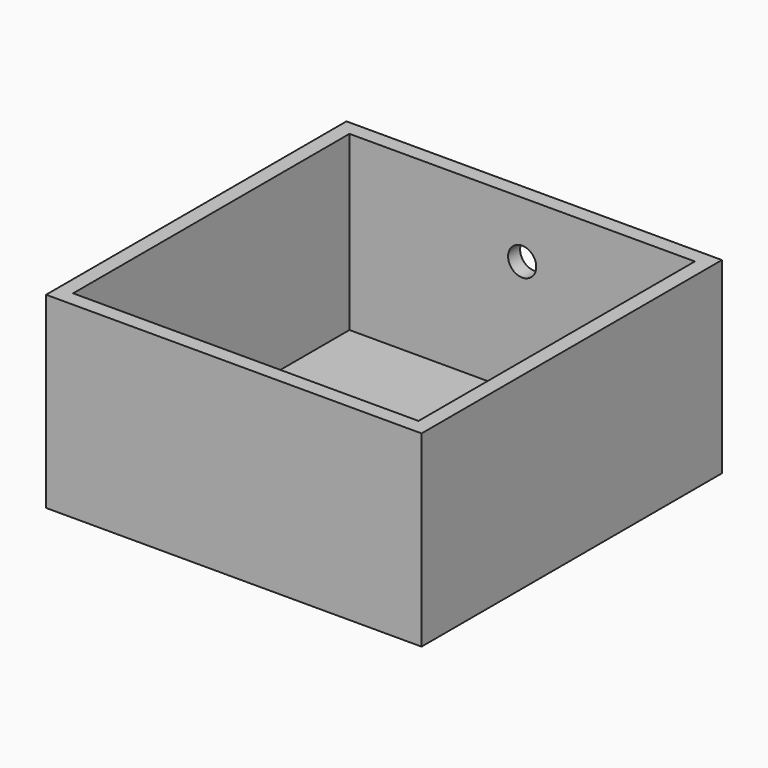
from build123d import *

# Parameters (mm, degrees)
F0_W     = 400
F0_H     = 200
F1_DEPTH = 400
F2_T     = -16
F3_D     = 30
F3_DEPTH = 16
F3_TIP   = 9.0129092854
F5_D     = 50


with BuildPart() as f1:
    # F0 (on Front) → F1 (new body)
    with BuildSketch(Plane.XZ):
        Rectangle(F0_W, F0_H)
    extrude(amount=F1_DEPTH)

    # F2
    f2_openings = [f1.faces().sort_by_distance(p)[0] for p in [
        (0, -200, 100),
    ]]
    offset(amount=F2_T, openings=f2_openings)

    # F3
    with Locations(Plane(origin=(0, 0, 0), x_dir=(1, 0, 0), z_dir=(0, 1, 0))):
        with Locations((0, -40)):
            Hole(F3_D / 2, depth=F3_DEPTH)
            with Locations((0, 0, -(F3_DEPTH + F3_TIP / 2))):  # 118° drill point
                Cone(0, F3_D / 2, F3_TIP, mode=Mode.SUBTRACT)

    # F5 (through all)
    with Locations(Plane.XY.offset(-84)):
        with Locations((124, -324)):
            Hole(F5_D / 2)


solid = f1.part
